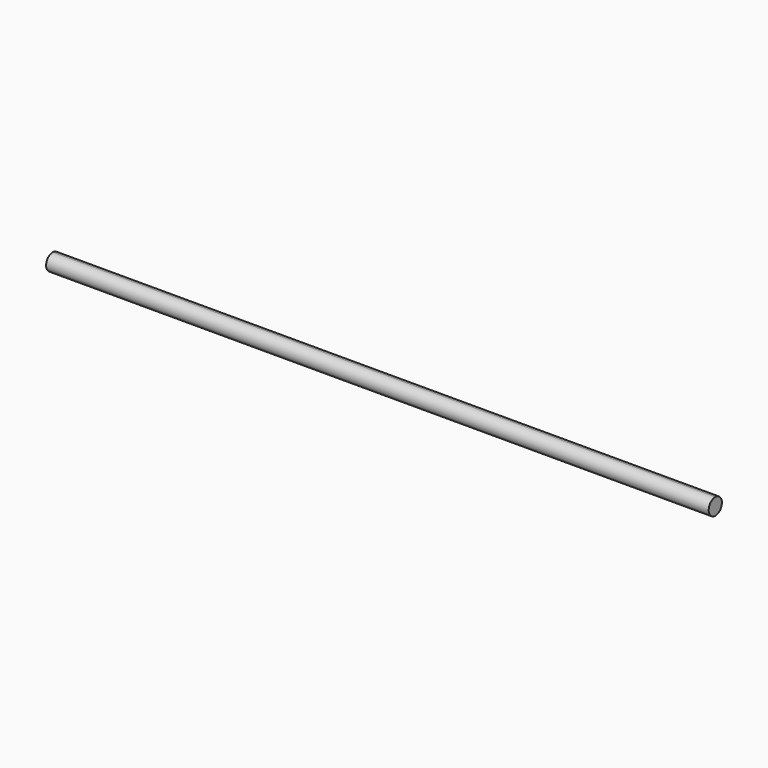
from build123d import *

# Parameters (mm, degrees)
F1_DEPTH = 50.8


with BuildPart() as f1:
    # F0 (on Right) → F1 (new body, symmetric)
    with BuildSketch(Plane.YZ):
        with BuildLine():
            ThreePointArc((-162.56, -1.27), (-161.661974, -0.898026), (-161.29, 0))
            ThreePointArc((-161.29, 0), (-161.661974, 0.898026), (-162.56, 1.27))
            Line((-162.56, 1.27), (-162.56, -1.27))
        make_face()
        with BuildLine():
            Line((-162.56, -1.27), (-162.56, 1.27))
            ThreePointArc((-162.56, 1.27), (-163.83, 0), (-162.56, -1.27))
        make_face()
    extrude(amount=F1_DEPTH, both=True)


solid = f1.part
